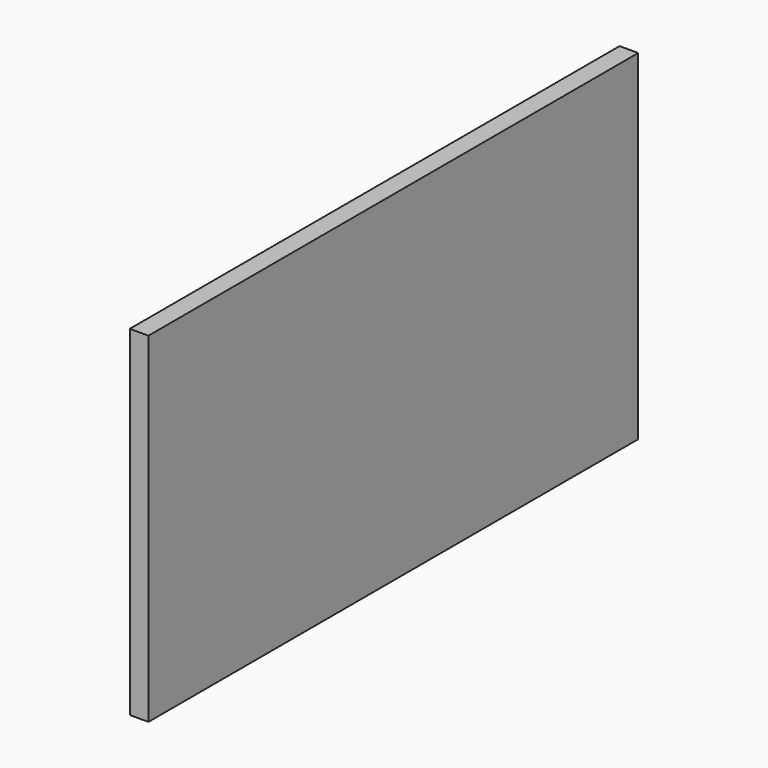
from build123d import *

# Parameters (mm, degrees)
F1_DEPTH = 2.54
F2_DEPTH = 2.54
F3_DEPTH = 5.08
F5_DEPTH = 3


with BuildPart() as f1:
    # F0 (on Top) → F1 (new body)
    with BuildSketch(Plane.XY):
        with BuildLine():
            Line((0, -15), (0, 15))
            ThreePointArc((0, 15), (-15, 0), (0, -15))
        make_face()
    extrude(amount=F1_DEPTH)

    # F0 (on Top) + F1_face (on face) → F2 (join)
    with BuildSketch(Plane.XY):
        with BuildLine():
            Line((0, 15), (0, 15.15))
            ThreePointArc((0, 15.15), (-15.15, 0), (0, -15.15))
            Line((0, -15.15), (0, -15))
            ThreePointArc((0, -15), (-15, 0), (0, 15))
        make_face()
    with BuildSketch(Plane(origin=(-6.3661977237, 0, 2.54), x_dir=(1, 0, 0), z_dir=(0, 0, 1))):
        with BuildLine():
            ThreePointArc((6.3661977237, 15), (-8.6338022763, 0), (6.3661977237, -15))
            Line((6.3661977237, -15), (6.3661977237, 15))
        make_face()
    extrude(amount=F2_DEPTH)

    # F0 (on Top) → F3 (join)
    with BuildSketch(Plane.XY):
        with BuildLine():
            Line((0, 15.15), (0, 15.5))
            ThreePointArc((0, 15.5), (-15.5, 0), (0, -15.5))
            Line((0, -15.5), (0, -15.15))
            ThreePointArc((0, -15.15), (-15.15, 0), (0, 15.15))
        make_face()
    extrude(amount=F3_DEPTH)

    # F4 (on Right) → F5 (join)
    with BuildSketch(Plane.YZ):
        Polygon((15.5500713736, -11.4404093474), (27.990128845, -11.4404093474), (27.990128845, 43.2069823146), (-70.4196095467, 43.2069823146), (-70.4196095467, -11.4404093474), align=None)
    extrude(amount=-F5_DEPTH)


solid = f1.part
